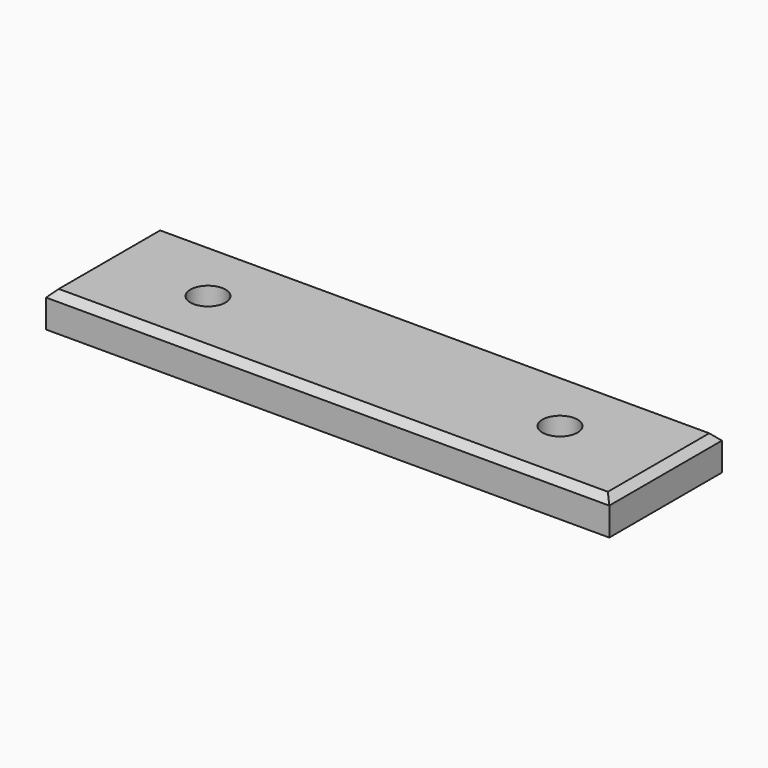
from build123d import *

# Parameters (mm, degrees)
SKETCH002_W     = 160
SKETCH002_H     = 40
SKETCH002_R     = 5
PAD001_DEPTH    = 10
CHAMFER001_SIZE = 2


with BuildPart() as part:
    # Sketch002 → Pad001 (new body)
    with BuildSketch(Plane.XY):
        Rectangle(SKETCH002_W, SKETCH002_H)
        with Locations((-50, 0)):
            Circle(SKETCH002_R, mode=Mode.SUBTRACT)
        with Locations((50, 0)):
            Circle(SKETCH002_R, mode=Mode.SUBTRACT)
    extrude(amount=PAD001_DEPTH)

    # Chamfer001
    chamfer001_edges = [part.edges().sort_by_distance(p)[0] for p in [
        (-80, 0, 10),
        (0, 20, 10),
        (80, 0, 10),
        (0, -20, 10),
    ]]
    chamfer(chamfer001_edges, length=CHAMFER001_SIZE)


solid = part.part
